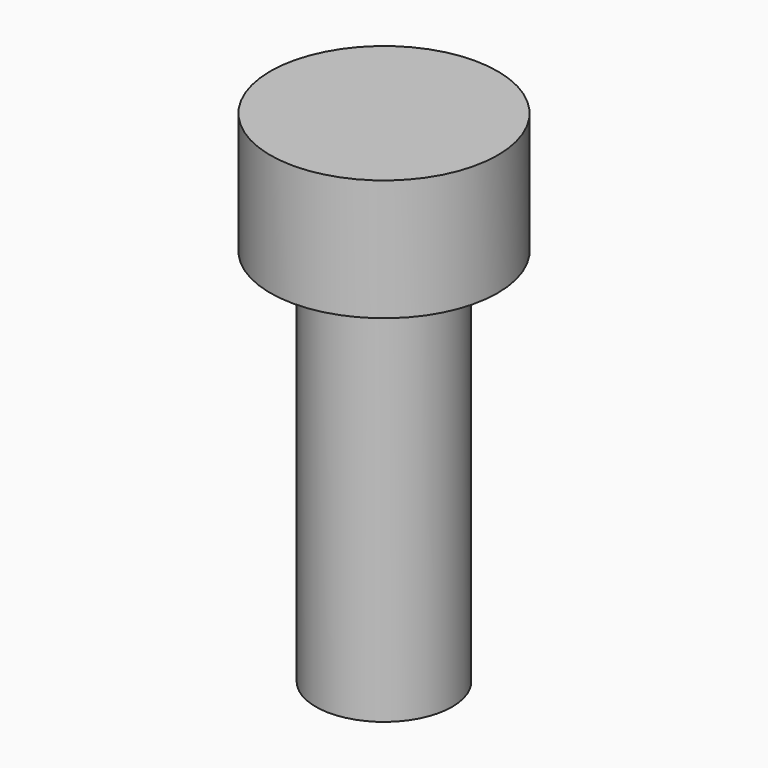
from build123d import *

# Parameters (mm, degrees)
CYLINDER014_R     = 4.5
CYLINDER014_DEPTH = 33
CYLINDER015_R     = 7.5
CYLINDER015_DEPTH = 8


with BuildPart() as cylinder014:
    # Cylinder014 → Cylinder014 (new body)
    with BuildSketch(Plane.XY.offset(25.5)):
        Circle(CYLINDER014_R)
    extrude(amount=CYLINDER014_DEPTH)


with BuildPart() as obj1:
    # Cylinder015 → Cylinder015 (new body)
    with BuildSketch(Plane.XY.offset(50.5)):
        Circle(CYLINDER015_R)
    extrude(amount=CYLINDER015_DEPTH)

    # Fusion004: union Cylinder014
    add(cylinder014.part)


solid = obj1.part
